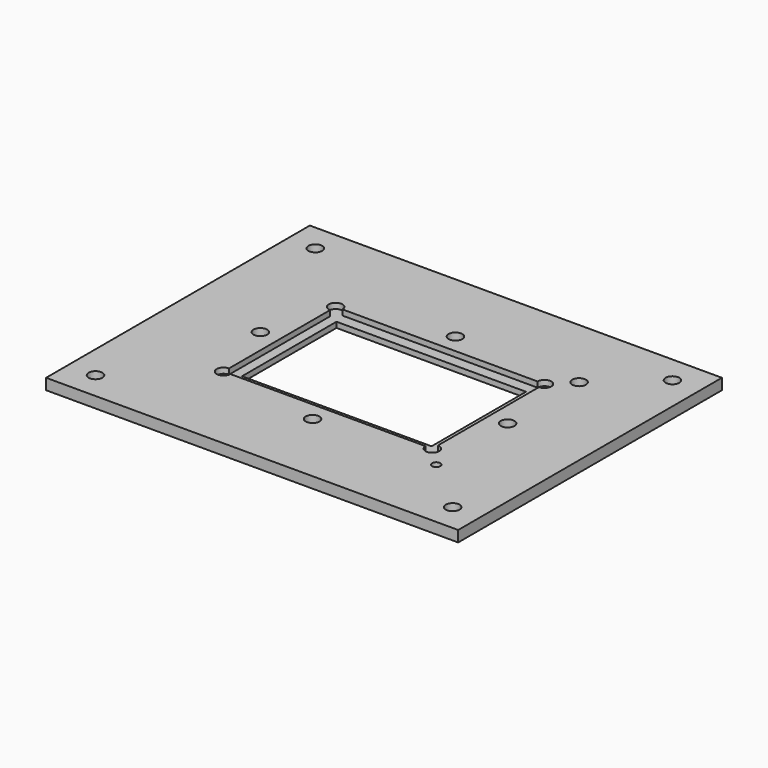
from build123d import *

# Parameters (mm, degrees)
F0_W     = 150
F0_H     = 120
F0_R     = 2.5
F0_R_2   = 1.5
F1_DEPTH = 4
F0_W_2   = 69
F0_H_2   = 43
F2_DEPTH = 2


with BuildPart() as f1:
    # F0 (on Top) → F1 (new body)
    with BuildSketch(Plane.XY):
        Rectangle(F0_W, F0_H)
        with Locations((-65, -50)):
            Circle(F0_R, mode=Mode.SUBTRACT)
        with Locations((0, -32.5)):
            Circle(F0_R, mode=Mode.SUBTRACT)
        with Locations((65, -50)):
            Circle(F0_R, mode=Mode.SUBTRACT)
        with Locations((45, -32.5)):
            Circle(F0_R_2, mode=Mode.SUBTRACT)
        with Locations((-45, 0)):
            Circle(F0_R, mode=Mode.SUBTRACT)
        with Locations((-65, 50)):
            Circle(F0_R, mode=Mode.SUBTRACT)
        with BuildLine():
            Line((-35.5, 25.5), (35.5, 25.5))
            ThreePointArc((35.5, 25.5), (39.767767, 27.267767), (38, 23))
            Line((38, 23), (38, -23))
            ThreePointArc((38, -23), (39.767767, -27.267767), (35.5, -25.5))
            Line((35.5, -25.5), (-35.5, -25.5))
            ThreePointArc((-35.5, -25.5), (-39.767767, -27.267767), (-38, -23))
            Line((-38, -23), (-38, 23))
            ThreePointArc((-38, 23), (-39.767767, 27.267767), (-35.5, 25.5))
        make_face(mode=Mode.SUBTRACT)
        with Locations((45, 0)):
            Circle(F0_R, mode=Mode.SUBTRACT)
        with Locations((0, 32.5)):
            Circle(F0_R, mode=Mode.SUBTRACT)
        with Locations((45, 32.5)):
            Circle(F0_R, mode=Mode.SUBTRACT)
        with Locations((65, 50)):
            Circle(F0_R, mode=Mode.SUBTRACT)
    extrude(amount=F1_DEPTH)

    # F0 (on Top) → F2 (join)
    with BuildSketch(Plane.XY):
        with BuildLine():
            ThreePointArc((38, 23), (39.767767, 27.267767), (35.5, 25.5))
            Line((35.5, 25.5), (-35.5, 25.5))
            ThreePointArc((-35.5, 25.5), (-39.767767, 27.267767), (-38, 23))
            Line((-38, 23), (-38, -23))
            ThreePointArc((-38, -23), (-39.767767, -27.267767), (-35.5, -25.5))
            Line((-35.5, -25.5), (35.5, -25.5))
            ThreePointArc((35.5, -25.5), (39.767767, -27.267767), (38, -23))
            Line((38, -23), (38, 23))
        make_face()
        Rectangle(F0_W_2, F0_H_2, mode=Mode.SUBTRACT)
    extrude(amount=F2_DEPTH)


solid = f1.part
